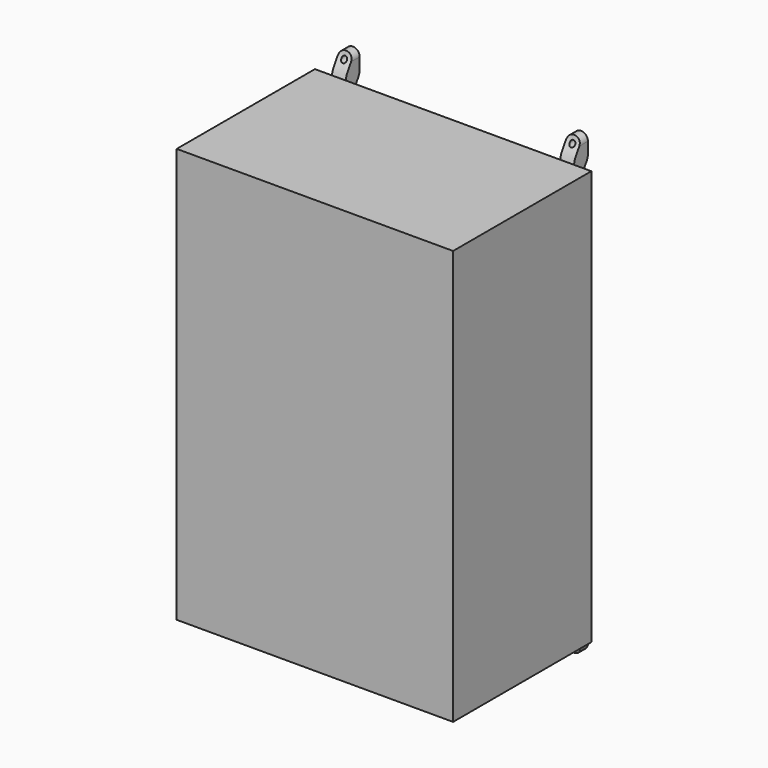
from build123d import *

# Parameters (mm, degrees)
F0_W     = 400
F0_H     = 600
F1_DEPTH = 125
F2_T     = -2
F3_R     = 4
F4_DEPTH = 25
F6_DEPTH = 350.3083479404


with BuildPart() as f1:
    # F0 (on Front) → F1 (new body, symmetric)
    with BuildSketch(Plane.XZ):
        Rectangle(F0_W, F0_H)
    extrude(amount=F1_DEPTH, both=True)

    # F2 (hollow: no face is removed)
    offset(amount=F2_T, mode=Mode.SUBTRACT)

    # F3 (on face) → F4 (join)
    with BuildSketch(Plane(origin=(0, 125, 0), x_dir=(-1, 0, 0), z_dir=(0, 1, 0))):
        with BuildLine():
            Line((-155.1541739702, 320), (-161.1541739702, 320))
            ThreePointArc((-161.1541739702, 320), (-165.1541739702, 316), (-169.1541739702, 320))
            Line((-169.1541739702, 320), (-175.1541739702, 320))
            Line((-175.1541739702, 320), (-175.1541739702, 275))
            Line((-175.1541739702, 275), (-155.1541739702, 275))
            Line((-155.1541739702, 275), (-155.1541739702, 320))
        make_face()
        with BuildLine():
            ThreePointArc((-169.1541739702, 320), (-165.1541739702, 324), (-161.1541739702, 320))
            Line((-161.1541739702, 320), (-155.1541739702, 320))
            ThreePointArc((-155.1541739702, 320), (-165.1541739702, 330), (-175.1541739702, 320))
            Line((-175.1541739702, 320), (-169.1541739702, 320))
        make_face()
        with BuildLine():
            ThreePointArc((-175.1541739702, -320), (-165.1541739702, -330), (-155.1541739702, -320))
            Line((-155.1541739702, -320), (-155.1541739702, -275))
            Line((-155.1541739702, -275), (-175.1541739702, -275))
            Line((-175.1541739702, -275), (-175.1541739702, -320))
        make_face()
        with Locations((-165.1541739702, -320)):
            Circle(F3_R, mode=Mode.SUBTRACT)
        with BuildLine():
            Line((175.1541739702, 275), (175.1541739702, 320))
            Line((175.1541739702, 320), (169.1541739702, 320))
            ThreePointArc((169.1541739702, 320), (165.1541739702, 316), (161.1541739702, 320))
            Line((161.1541739702, 320), (155.1541739702, 320))
            Line((155.1541739702, 320), (155.1541739702, 275))
            Line((155.1541739702, 275), (175.1541739702, 275))
        make_face()
        with BuildLine():
            Line((169.1541739702, 320), (175.1541739702, 320))
            ThreePointArc((175.1541739702, 320), (165.1541739702, 330), (155.1541739702, 320))
            Line((155.1541739702, 320), (161.1541739702, 320))
            ThreePointArc((161.1541739702, 320), (165.1541739702, 324), (169.1541739702, 320))
        make_face()
        with BuildLine():
            Line((175.1541739702, -320), (175.1541739702, -275))
            Line((175.1541739702, -275), (155.1541739702, -275))
            Line((155.1541739702, -275), (155.1541739702, -320))
            ThreePointArc((155.1541739702, -320), (165.1541739702, -330), (175.1541739702, -320))
        make_face()
        with Locations((165.1541739702, -320)):
            Circle(F3_R, mode=Mode.SUBTRACT)
    extrude(amount=F4_DEPTH)

    # F5 (on face) → F6 (cut, through all)
    with BuildSketch(Plane.YZ.offset(175.1541739702)):
        with BuildLine():
            Line((137.5, 330), (125, 330))
            Line((125, 330), (125, 300))
            add(Edge.make_bspline(
                [(125, 300), (125, 310.8333333333), (137.5, 319.1666666667), (137.5, 330)],
                knots=[0, 0, 0, 0, 32.5, 32.5, 32.5, 32.5], degree=3))
        make_face()
        with BuildLine():
            Line((137.5, 275), (150, 275))
            Line((150, 275), (150, 303.6975562572))
            add(Edge.make_bspline(
                [(137.5, 275), (137.5, 285.4339176361), (150, 293.2636386211), (150, 303.6975562572)],
                knots=[0, 0, 0, 0, 31.3017529084, 31.3017529084, 31.3017529084, 31.3017529084], degree=3))
        make_face()
        with BuildLine():
            Line((150, -275), (137.5, -275))
            add(Edge.make_bspline(
                [(137.5, -275), (137.5, -285.4339176361), (150, -293.2636386211), (150, -303.6975562572)],
                knots=[0, 0, 0, 0, 31.3017529084, 31.3017529084, 31.3017529084, 31.3017529084], degree=3))
            Line((150, -303.6975562572), (150, -275))
        make_face()
        with BuildLine():
            add(Edge.make_bspline(
                [(125, -300), (125, -310.8333333333), (137.5, -319.1666666667), (137.5, -330)],
                knots=[0, 0, 0, 0, 32.5, 32.5, 32.5, 32.5], degree=3))
            Line((125, -300), (125, -330))
            Line((125, -330), (137.5, -330))
        make_face()
    extrude(amount=-F6_DEPTH, mode=Mode.SUBTRACT)


solid = f1.part
